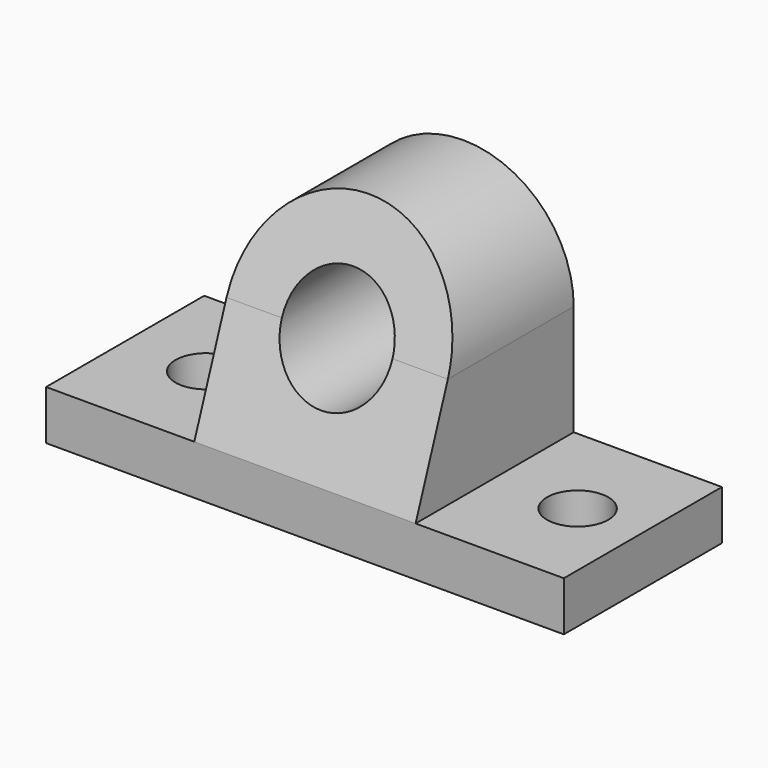
from build123d import *

# Parameters (mm, degrees)
F0_R     = 14.224
F1_DEPTH = 50.8
F3_DEPTH = 177.8
F4_R     = 7.874
F5_DEPTH = 25.4


with BuildPart() as f1:
    # F0 (on Front) → F1 (new body)
    with BuildSketch(Plane.XZ):
        Polygon((-32.6052582374, 11.9092461534), (-70.7052582374, 11.9092461534), (-70.7052582374, -0.7907538466), (62.3907417626, -0.7907538466), (62.3907417626, 11.9092461534), (24.2907417626, 11.9092461534), align=None)
        with BuildLine():
            Line((-32.6052582374, 14.9572461534), (-32.6052582374, 11.9092461534))
            Line((-32.6052582374, 11.9092461534), (24.2907417626, 11.9092461534))
            Line((24.2907417626, 11.9092461534), (24.2907417626, 14.9572461534))
            Line((24.2907417626, 14.9572461534), (24.2907417626, 40.3572461534))
            ThreePointArc((24.2907417626, 40.3572461534), (-4.1572582374, 68.8052461534), (-32.6052582374, 40.3572461534))
            Line((-32.6052582374, 40.3572461534), (-32.6052582374, 14.9572461534))
        make_face()
        with Locations((-4.1572582374, 40.3572461534)):
            Circle(F0_R, mode=Mode.SUBTRACT)
    extrude(amount=F1_DEPTH)

    # F2 (on face) → F3 (cut)
    with BuildSketch(Plane.YZ.offset(24.2907417626)):
        Polygon((-50.8, 68.8053369522), (-30.0915165031, 68.8053369522), (-28.7422632826, 72.5123797086), (-50.8, 72.5123797086), align=None)
        Polygon((-50.8, 40.3572461534), (-50.8, 11.9092461534), (-40.4457747756, 40.3572461534), align=None)
        Polygon((-50.8, 40.3572461534), (-40.4457747756, 40.3572461534), (-30.0915165031, 68.8053369522), (-50.8, 68.8053369522), align=None)
    extrude(amount=-F3_DEPTH, mode=Mode.SUBTRACT)

    # F4 (on face) → F5 (cut)
    with BuildSketch(Plane.XY.offset(11.9092461534)):
        with Locations((-49.8867883899, -25.4)):
            Circle(F4_R)
        with Locations((45.6172116101, -25.4)):
            Circle(F4_R)
    extrude(amount=-F5_DEPTH, mode=Mode.SUBTRACT)


solid = f1.part
